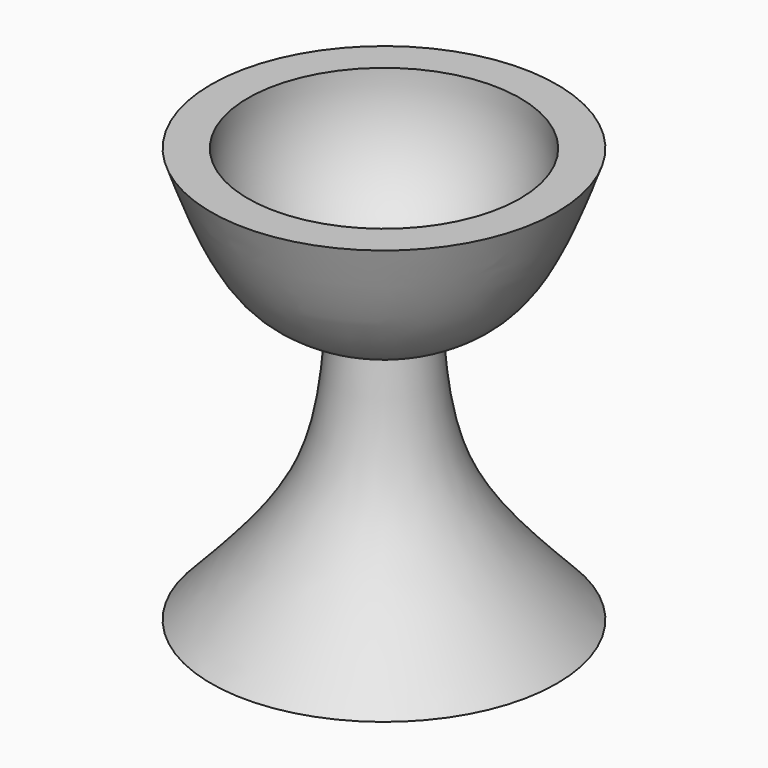
from build123d import *

# Parameters (mm, degrees)
F0_R     = 25.4
F1_DEPTH = 60.96


with BuildPart() as f1:
    # F0 (on Top) → F1 (new body)
    with BuildSketch(Plane.XY):
        Circle(F0_R)
    extrude(amount=F1_DEPTH)

    # F2 (on Front) → F3 (revolve, cut)
    with BuildSketch(Plane.XZ):
        with BuildLine():
            add(Edge.make_bspline(
                [(-25.4, 60.96), (-23.0064342821, 54.3382376616), (-18.7242288008, 42.4915827865), (-10.4409751257, 38.9702499578), (-6.7876982503, 37.4171882868)],
                knots=[0, 0, 0, 0, 0.5589562968, 1, 1, 1, 1], degree=3))
            Line((-25.4, 60.96), (-25.4, 0))
            add(Edge.make_bspline(
                [(-6.7876982503, 37.4171882868), (-7.2772344038, 31.2583061805), (-8.3285058101, 18.0322010073), (-19.4547919938, 6.2797775406), (-25.4, 0)],
                knots=[0, 0, 0, 0, 0.4656610563, 1, 1, 1, 1], degree=3))
        make_face()
    revolve(axis=Axis((0, 0, 26.0477950796), (0, 0, -1)), mode=Mode.SUBTRACT)

    # F4 (on Front) → F5 (revolve, cut)
    with BuildSketch(Plane.XZ):
        with BuildLine():
            Line((0, 79.8403099308), (0, 39.7928841284))
            ThreePointArc((0, 39.7928841284), (20.0237129012, 59.8165970296), (0, 79.8403099308))
        make_face()
    revolve(axis=Axis((0, 0, 59.8165970296), (0, 0, -1)), mode=Mode.SUBTRACT)


solid = f1.part
